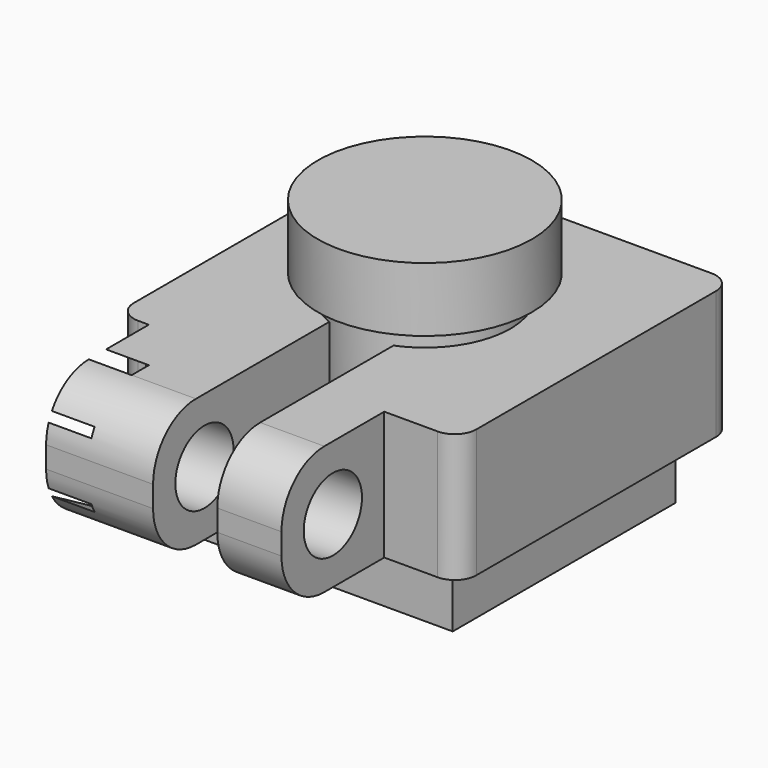
from build123d import *

# Parameters (mm, degrees)
BOX_W           = 13
BOX_H           = 13
BOX_DEPTH       = 3
SKETCH_W        = 12
SKETCH_H        = 12
PAD_DEPTH       = 3
SKETCH001_R     = 4
PAD001_DEPTH    = 4
SKETCH002_R     = 5
PAD002_DEPTH    = 3
PAD003_DEPTH    = 6
PAD004_DEPTH    = 3
SKETCH005_R     = 1.7
POCKET_DEPTH    = 15
FILLET_R        = 2.5
POCKET001_DEPTH = 2
FILLET001_R     = 1


with BuildPart() as camera:
    # Box → Box (new body)
    with BuildSketch(Plane.XY):
        with Locations((6.5, 6.5)):
            Rectangle(BOX_W, BOX_H)
    extrude(amount=BOX_DEPTH)

    # Sketch → Pad (new body)
    with BuildSketch(Plane.XY.offset(3)):
        with Locations((6.5, 6.5)):
            Rectangle(SKETCH_W, SKETCH_H)
    extrude(amount=PAD_DEPTH)

    # Sketch001 → Pad001 (new body)
    with BuildSketch(Plane.XY.offset(6)):
        with Locations((6.5, 6.5)):
            Circle(SKETCH001_R)
    extrude(amount=PAD001_DEPTH)

    # Sketch002 → Pad002 (new body)
    with BuildSketch(Plane.XY.offset(10)):
        with Locations((6.5, 6.5)):
            Circle(SKETCH002_R)
    extrude(amount=PAD002_DEPTH)


with BuildPart() as cam_holder:
    # Sketch003 → Pad003 (new body)
    with BuildSketch(Plane.XY.offset(3)):
        Polygon((0.5, 12.5), (12.5, 12.5), (12.5, 0.5), (8, 0.5), (8, -7.5), (11, -7.5), (11, -1.5), (14.5, -1.5), (14.5, 14.5), (-1.5, 14.5), (-1.5, -1.5), (0, -1.5), (0, -7.5), (5, -7.5), (5, 0.5), (0.5, 0.5), align=None)
    extrude(amount=PAD003_DEPTH)

    # Sketch004 → Pad004 (new body)
    with BuildSketch(Plane.XY.offset(9)):
        with BuildLine():
            ThreePointArc((8, 2.791901), (6.5, 10.5), (5, 2.791901))
            Line((5, 0.5), (5, 2.791901))
            Line((5, 0.5), (0.5, 0.5))
            Line((0.5, 0.5), (0.5, 12.5))
            Line((0.5, 12.5), (12.5, 12.5))
            Line((12.5, 12.5), (12.5, 0.5))
            Line((12.5, 0.5), (8, 0.5))
            Line((8, 0.5), (8, 2.791901))
        make_face()
    extrude(amount=-PAD004_DEPTH)

    # Sketch005 → Pocket (cut)
    with BuildSketch(Plane(origin=(11, 0, 3), x_dir=(0, 1, 0), z_dir=(1, 0, 0))):
        with Locations((-4.5, 3)):
            Circle(SKETCH005_R)
    extrude(amount=-POCKET_DEPTH, mode=Mode.SUBTRACT)

    # Fillet
    fillet_edges = [cam_holder.edges().sort_by_distance(p)[0] for p in [
        (2.5, -7.5, 9),
        (2.5, -7.5, 3),
        (9.5, -7.5, 3),
        (9.5, -7.5, 9),
    ]]
    fillet(fillet_edges, radius=FILLET_R)

    # Sketch006 → Pocket001 (cut)
    with BuildSketch(Plane(origin=(0, 0, 3), x_dir=(0, -1, 0), z_dir=(-1, 0, 0))):
        Polygon((7.35, 4.645448), (4.5, 6.290897), (1.65, 4.645448), (1.65, 1.354552), (4.5, -0.290897), (7.35, 1.354552), align=None)
    extrude(amount=-POCKET001_DEPTH, mode=Mode.SUBTRACT)

    # Fillet001
    fillet001_edges = [cam_holder.edges().sort_by_distance(p)[0] for p in [
        (-1.5, 14.5, 6),
        (14.5, -1.5, 6),
        (14.5, 14.5, 6),
        (-1.5, -1.5, 6),
    ]]
    fillet(fillet001_edges, radius=FILLET001_R)


solid = Compound([camera.part, cam_holder.part])
